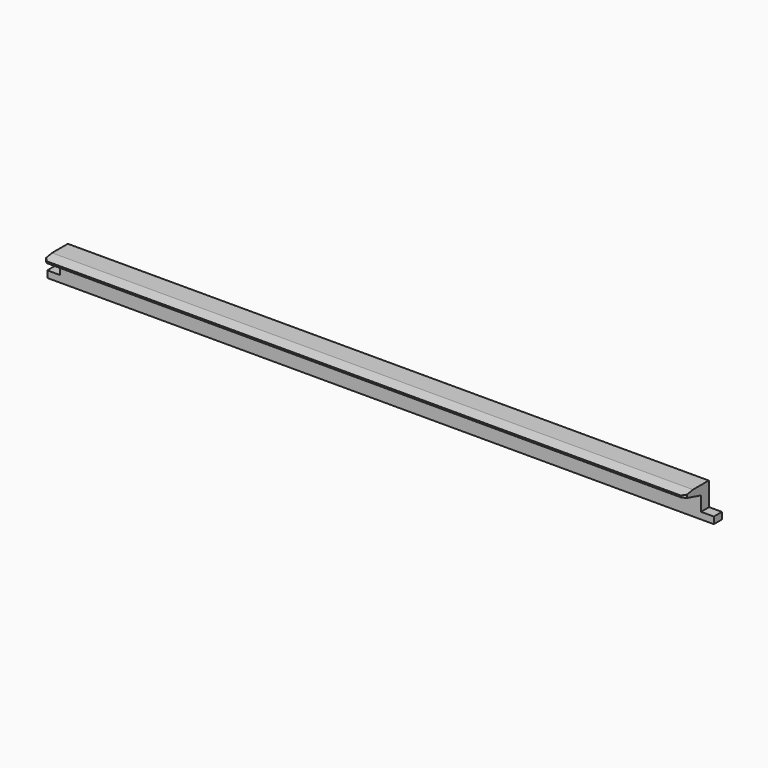
from build123d import *

# Parameters (mm, degrees)
F1_DEPTH = 950
F2_W     = 988
F2_H     = 10
F3_DEPTH = 15
F4_SIZE  = 5


with BuildPart() as f1:
    # F0 (on Right) → F1 (new body)
    with BuildSketch(Plane.YZ):
        with BuildLine():
            ThreePointArc((0, -1), (-0.292893, -0.292893), (-1, 0))
            Line((-1, 0), (-30, 0))
            Line((-30, 0), (-46, -2.821232))
            Line((-46, -2.821232), (-46, -5.181976))
            Line((-46, -5.181976), (-15, -13.5))
            Line((-15, -13.5), (-15, -45))
            Line((-15, -45), (0, -45))
            Line((0, -45), (0, -1))
        make_face()
    extrude(amount=-F1_DEPTH)

    # F2 (on Front) → F3 (join)
    with BuildSketch(Plane.XZ):
        with Locations((-475, -40)):
            Rectangle(F2_W, F2_H)
    extrude(amount=F3_DEPTH)

    # F4
    f4_edges = [f1.edges().sort_by_distance(p)[0] for p in [
        (0, -46, -4.001604),
        (-950, -46, -4.001604),
    ]]
    chamfer(f4_edges, length=F4_SIZE)


solid = f1.part
